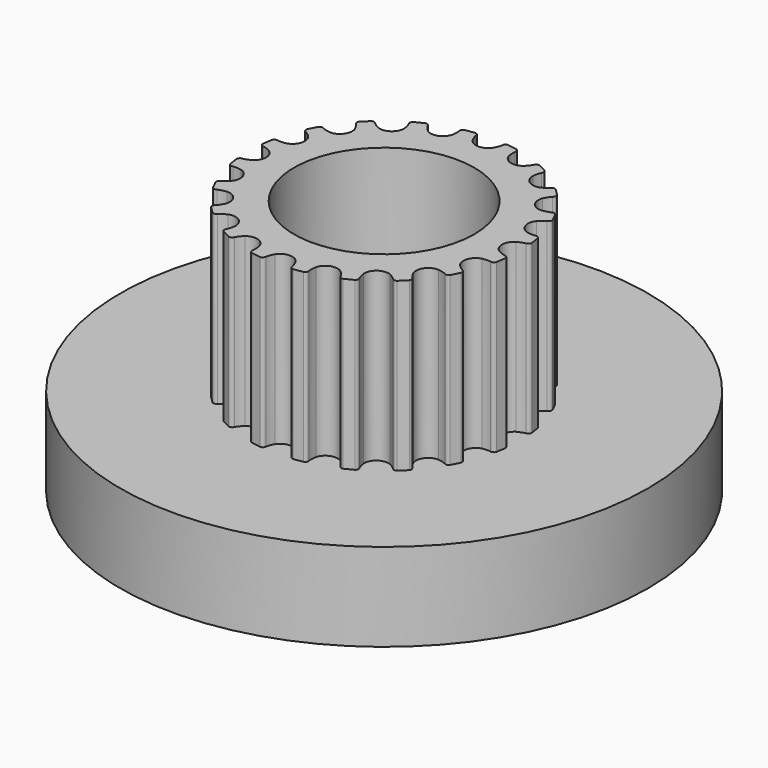
from build123d import *

# Parameters (mm, degrees)
PAD018_DEPTH      = 15
SKETCHBASE_R      = 6.37
PADBASE_DEPTH     = 1
SKETCHTOP_R       = 6.37
PADTOP_DEPTH      = 1
PADTOP_FACE127_R  = 6.37
POCKET013_DEPTH   = 7.4
SKETCH033_R       = 4.1
POCKET014_DEPTH   = 8.601
SKETCH050_R       = 12
PAD024_DEPTH      = 3
PAD024_DEPTH_BACK = 1
PAD024_FACE124_R  = 4.1
POCKET051_DEPTH   = 5


with BuildPart() as part:
    # SketchGear → Pad018 (new body)
    with BuildSketch(Plane.XY):
        with BuildLine():
            ThreePointArc((6.112198, -0.75), (6.068264, -0.643934), (5.962198, -0.6))
            ThreePointArc((5.962198, -0.6), (5.782909, -0.544218), (5.612198, -0.466025))
            ThreePointArc((5.612198, -0.466025), (5.362198, 0), (5.612198, 0.466025))
            ThreePointArc((5.612198, 0.466025), (5.782909, 0.544218), (5.962198, 0.6))
            ThreePointArc((5.962198, 0.6), (6.068264, 0.643934), (6.112198, 0.75))
            Line((6.112198, 0.75), (6.044808, 1.175481))
            ThreePointArc((6.044808, 1.175481), (5.970248, 1.262779), (5.855797, 1.271787))
            ThreePointArc((5.855797, 1.271787), (5.668045, 1.269435), (5.481527, 1.291048))
            ThreePointArc((5.481527, 1.291048), (5.099753, 1.65701), (5.193507, 2.177481))
            ThreePointArc((5.193507, 2.177481), (5.331701, 2.304599), (5.484977, 2.413054))
            ThreePointArc((5.484977, 2.413054), (5.572275, 2.487614), (5.581283, 2.602065))
            Line((5.581283, 2.602065), (5.385711, 2.985897))
            ThreePointArc((5.385711, 2.985897), (5.287823, 3.045882), (5.17619, 3.019082))
            ThreePointArc((5.17619, 3.019082), (4.998354, 2.958827), (4.814286, 2.921745))
            ThreePointArc((4.814286, 2.921745), (4.338109, 3.151821), (4.26644, 3.67579))
            ThreePointArc((4.26644, 3.67579), (4.358588, 3.83939), (4.470848, 3.989902))
            ThreePointArc((4.470848, 3.989902), (4.530834, 4.087789), (4.504033, 4.199422))
            Line((4.504033, 4.199422), (4.199422, 4.504033))
            ThreePointArc((4.199422, 4.504033), (4.087789, 4.530834), (3.989902, 4.470848))
            ThreePointArc((3.989902, 4.470848), (3.83939, 4.358588), (3.67579, 4.26644))
            ThreePointArc((3.67579, 4.26644), (3.151821, 4.338109), (2.921745, 4.814286))
            ThreePointArc((2.921745, 4.814286), (2.958827, 4.998354), (3.019082, 5.17619))
            ThreePointArc((3.019082, 5.17619), (3.045882, 5.287823), (2.985897, 5.385711))
            Line((2.985897, 5.385711), (2.602065, 5.581283))
            ThreePointArc((2.602065, 5.581283), (2.487614, 5.572275), (2.413054, 5.484977))
            ThreePointArc((2.413054, 5.484977), (2.304599, 5.331701), (2.177481, 5.193507))
            ThreePointArc((2.177481, 5.193507), (1.65701, 5.099753), (1.291048, 5.481527))
            ThreePointArc((1.291048, 5.481527), (1.269435, 5.668045), (1.271787, 5.855797))
            ThreePointArc((1.271787, 5.855797), (1.262779, 5.970248), (1.175481, 6.044808))
            Line((1.175481, 6.044808), (0.75, 6.112198))
            ThreePointArc((0.75, 6.112198), (0.643934, 6.068264), (0.6, 5.962198))
            ThreePointArc((0.6, 5.962198), (0.544218, 5.782909), (0.466025, 5.612198))
            ThreePointArc((0.466025, 5.612198), (0, 5.362198), (-0.466025, 5.612198))
            ThreePointArc((-0.466025, 5.612198), (-0.544218, 5.782909), (-0.6, 5.962198))
            ThreePointArc((-0.6, 5.962198), (-0.643934, 6.068264), (-0.75, 6.112198))
            Line((-0.75, 6.112198), (-1.175481, 6.044808))
            ThreePointArc((-1.175481, 6.044808), (-1.262779, 5.970248), (-1.271787, 5.855797))
            ThreePointArc((-1.271787, 5.855797), (-1.269435, 5.668045), (-1.291048, 5.481527))
            ThreePointArc((-1.291048, 5.481527), (-1.65701, 5.099753), (-2.177481, 5.193507))
            ThreePointArc((-2.177481, 5.193507), (-2.304599, 5.331701), (-2.413054, 5.484977))
            ThreePointArc((-2.413054, 5.484977), (-2.487614, 5.572275), (-2.602065, 5.581283))
            Line((-2.602065, 5.581283), (-2.985897, 5.385711))
            ThreePointArc((-2.985897, 5.385711), (-3.045882, 5.287823), (-3.019082, 5.17619))
            ThreePointArc((-3.019082, 5.17619), (-2.958827, 4.998354), (-2.921745, 4.814286))
            ThreePointArc((-2.921745, 4.814286), (-3.151821, 4.338109), (-3.67579, 4.26644))
            ThreePointArc((-3.67579, 4.26644), (-3.83939, 4.358588), (-3.989902, 4.470848))
            ThreePointArc((-3.989902, 4.470848), (-4.087789, 4.530834), (-4.199422, 4.504033))
            Line((-4.199422, 4.504033), (-4.504033, 4.199422))
            ThreePointArc((-4.504033, 4.199422), (-4.530834, 4.087789), (-4.470848, 3.989902))
            ThreePointArc((-4.470848, 3.989902), (-4.358588, 3.83939), (-4.26644, 3.67579))
            ThreePointArc((-4.26644, 3.67579), (-4.338109, 3.151821), (-4.814286, 2.921745))
            ThreePointArc((-4.814286, 2.921745), (-4.998354, 2.958827), (-5.17619, 3.019082))
            ThreePointArc((-5.17619, 3.019082), (-5.287823, 3.045882), (-5.385711, 2.985897))
            Line((-5.385711, 2.985897), (-5.581283, 2.602065))
            ThreePointArc((-5.581283, 2.602065), (-5.572275, 2.487614), (-5.484977, 2.413054))
            ThreePointArc((-5.484977, 2.413054), (-5.331701, 2.304599), (-5.193507, 2.177481))
            ThreePointArc((-5.193507, 2.177481), (-5.099753, 1.65701), (-5.481527, 1.291048))
            ThreePointArc((-5.481527, 1.291048), (-5.668045, 1.269435), (-5.855797, 1.271787))
            ThreePointArc((-5.855797, 1.271787), (-5.970248, 1.262779), (-6.044808, 1.175481))
            Line((-6.044808, 1.175481), (-6.112198, 0.75))
            ThreePointArc((-6.112198, 0.75), (-6.068264, 0.643934), (-5.962198, 0.6))
            ThreePointArc((-5.962198, 0.6), (-5.782909, 0.544218), (-5.612198, 0.466025))
            ThreePointArc((-5.612198, 0.466025), (-5.362198, 0), (-5.612198, -0.466025))
            ThreePointArc((-5.612198, -0.466025), (-5.782909, -0.544218), (-5.962198, -0.6))
            ThreePointArc((-5.962198, -0.6), (-6.068264, -0.643934), (-6.112198, -0.75))
            Line((-6.112198, -0.75), (-6.044808, -1.175481))
            ThreePointArc((-6.044808, -1.175481), (-5.970248, -1.262779), (-5.855797, -1.271787))
            ThreePointArc((-5.855797, -1.271787), (-5.668045, -1.269435), (-5.481527, -1.291048))
            ThreePointArc((-5.481527, -1.291048), (-5.099753, -1.65701), (-5.193507, -2.177481))
            ThreePointArc((-5.193507, -2.177481), (-5.331701, -2.304599), (-5.484977, -2.413054))
            ThreePointArc((-5.484977, -2.413054), (-5.572275, -2.487614), (-5.581283, -2.602065))
            Line((-5.581283, -2.602065), (-5.385711, -2.985897))
            ThreePointArc((-5.385711, -2.985897), (-5.287823, -3.045882), (-5.17619, -3.019082))
            ThreePointArc((-5.17619, -3.019082), (-4.998354, -2.958827), (-4.814286, -2.921745))
            ThreePointArc((-4.814286, -2.921745), (-4.338109, -3.151821), (-4.26644, -3.67579))
            ThreePointArc((-4.26644, -3.67579), (-4.358588, -3.83939), (-4.470848, -3.989902))
            ThreePointArc((-4.470848, -3.989902), (-4.530834, -4.087789), (-4.504033, -4.199422))
            Line((-4.504033, -4.199422), (-4.199422, -4.504033))
            ThreePointArc((-4.199422, -4.504033), (-4.087789, -4.530834), (-3.989902, -4.470848))
            ThreePointArc((-3.989902, -4.470848), (-3.83939, -4.358588), (-3.67579, -4.26644))
            ThreePointArc((-3.67579, -4.26644), (-3.151821, -4.338109), (-2.921745, -4.814286))
            ThreePointArc((-2.921745, -4.814286), (-2.958827, -4.998354), (-3.019082, -5.17619))
            ThreePointArc((-3.019082, -5.17619), (-3.045882, -5.287823), (-2.985897, -5.385711))
            Line((-2.985897, -5.385711), (-2.602065, -5.581283))
            ThreePointArc((-2.602065, -5.581283), (-2.487614, -5.572275), (-2.413054, -5.484977))
            ThreePointArc((-2.413054, -5.484977), (-2.304599, -5.331701), (-2.177481, -5.193507))
            ThreePointArc((-2.177481, -5.193507), (-1.65701, -5.099753), (-1.291048, -5.481527))
            ThreePointArc((-1.291048, -5.481527), (-1.269435, -5.668045), (-1.271787, -5.855797))
            ThreePointArc((-1.271787, -5.855797), (-1.262779, -5.970248), (-1.175481, -6.044808))
            Line((-1.175481, -6.044808), (-0.75, -6.112198))
            ThreePointArc((-0.75, -6.112198), (-0.643934, -6.068264), (-0.6, -5.962198))
            ThreePointArc((-0.6, -5.962198), (-0.544218, -5.782909), (-0.466025, -5.612198))
            ThreePointArc((-0.466025, -5.612198), (0, -5.362198), (0.466025, -5.612198))
            ThreePointArc((0.466025, -5.612198), (0.544218, -5.782909), (0.6, -5.962198))
            ThreePointArc((0.6, -5.962198), (0.643934, -6.068264), (0.75, -6.112198))
            Line((0.75, -6.112198), (1.175481, -6.044808))
            ThreePointArc((1.175481, -6.044808), (1.262779, -5.970248), (1.271787, -5.855797))
            ThreePointArc((1.271787, -5.855797), (1.269435, -5.668045), (1.291048, -5.481527))
            ThreePointArc((1.291048, -5.481527), (1.65701, -5.099753), (2.177481, -5.193507))
            ThreePointArc((2.177481, -5.193507), (2.304599, -5.331701), (2.413054, -5.484977))
            ThreePointArc((2.413054, -5.484977), (2.487614, -5.572275), (2.602065, -5.581283))
            Line((2.602065, -5.581283), (2.985897, -5.385711))
            ThreePointArc((2.985897, -5.385711), (3.045882, -5.287823), (3.019082, -5.17619))
            ThreePointArc((3.019082, -5.17619), (2.958827, -4.998354), (2.921745, -4.814286))
            ThreePointArc((2.921745, -4.814286), (3.151821, -4.338109), (3.67579, -4.26644))
            ThreePointArc((3.67579, -4.26644), (3.83939, -4.358588), (3.989902, -4.470848))
            ThreePointArc((3.989902, -4.470848), (4.087789, -4.530834), (4.199422, -4.504033))
            Line((4.199422, -4.504033), (4.504033, -4.199422))
            ThreePointArc((4.504033, -4.199422), (4.530834, -4.087789), (4.470848, -3.989902))
            ThreePointArc((4.470848, -3.989902), (4.358588, -3.83939), (4.26644, -3.67579))
            ThreePointArc((4.26644, -3.67579), (4.338109, -3.151821), (4.814286, -2.921745))
            ThreePointArc((4.814286, -2.921745), (4.998354, -2.958827), (5.17619, -3.019082))
            ThreePointArc((5.17619, -3.019082), (5.287823, -3.045882), (5.385711, -2.985897))
            Line((5.385711, -2.985897), (5.581283, -2.602065))
            ThreePointArc((5.581283, -2.602065), (5.572275, -2.487614), (5.484977, -2.413054))
            ThreePointArc((5.484977, -2.413054), (5.331701, -2.304599), (5.193507, -2.177481))
            ThreePointArc((5.193507, -2.177481), (5.099753, -1.65701), (5.481527, -1.291048))
            ThreePointArc((5.481527, -1.291048), (5.668045, -1.269435), (5.855797, -1.271787))
            ThreePointArc((5.855797, -1.271787), (5.970248, -1.262779), (6.044808, -1.175481))
            Line((6.044808, -1.175481), (6.112198, -0.75))
        make_face()
    extrude(amount=PAD018_DEPTH)

    # SketchBase → PadBase (join)
    with BuildSketch(Plane.XY):
        Circle(SKETCHBASE_R)
    extrude(amount=PADBASE_DEPTH)

    # SketchTop → PadTop (join)
    with BuildSketch(Plane.XY.offset(15)):
        Circle(SKETCHTOP_R)
    extrude(amount=PADTOP_DEPTH)

    # PadTop Face127 → Pocket013 (cut)
    with BuildSketch(Plane(origin=(0, 0, 16), x_dir=(0, 1, 0), z_dir=(0, 0, 1))):
        Circle(PADTOP_FACE127_R)
    extrude(amount=-POCKET013_DEPTH, mode=Mode.SUBTRACT)

    # Sketch033 (on Face125 of Pocket013) → Pocket014 (cut, through all)
    with BuildSketch(Plane(origin=(0, 0, 0), x_dir=(1, 0, 0), z_dir=(0, 0, -1))):
        Circle(SKETCH033_R)
    extrude(amount=-POCKET014_DEPTH, mode=Mode.SUBTRACT)

    # Sketch050 (on Face125 of Pocket014) → Pad024 (join, two sides)
    with BuildSketch(Plane(origin=(0, 0, 0), x_dir=(1, 0, 0), z_dir=(0, 0, -1))) as pad024_sk:
        Circle(SKETCH050_R)
    extrude(amount=PAD024_DEPTH)
    extrude(pad024_sk.sketch, amount=-PAD024_DEPTH_BACK)

    # Pad024 Face124 → Pocket051 (cut)
    with BuildSketch(Plane(origin=(0, 0, 1), x_dir=(0, 1, 0), z_dir=(0, 0, 1))):
        Circle(PAD024_FACE124_R)
    extrude(amount=-POCKET051_DEPTH, mode=Mode.SUBTRACT)


with BuildPart() as part_1:
    # Gear placement: moved
    add(part.part.moved(Location((0, 66, -1))))


solid = part_1.part
